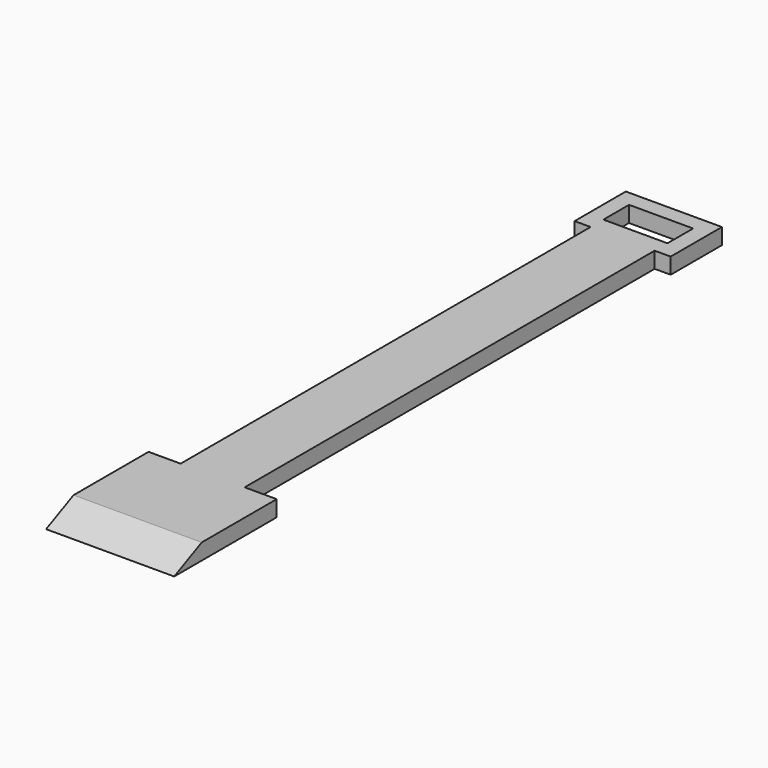
from build123d import *

# Parameters (mm, degrees)
F0_W     = 12.7
F0_H     = 101.6
F0_H_2   = 6.35
F1_DEPTH = 3.175
F3_DEPTH = 25.4


with BuildPart() as f1:
    # F0 (on Top) → F1 (new body)
    with BuildSketch(Plane.XY):
        with Locations((0, 76.2)):
            Rectangle(F0_W, F0_H)
        Polygon((-9.525, 127), (-6.35, 127), (6.35, 127), (9.525, 127), (9.525, 139.7), (-9.525, 139.7), align=None)
        with Locations((0, 133.35)):
            Rectangle(F0_W, F0_H_2, mode=Mode.SUBTRACT)
        Polygon((-12.7, 25.4), (-12.7, 0), (12.7, 0), (12.7, 25.4), (6.35, 25.4), (-6.35, 25.4), align=None)
    extrude(amount=F1_DEPTH)

    # F2 (on face) → F3 (cut)
    with BuildSketch(Plane.YZ.offset(12.7)):
        Polygon((0, 3.175), (0, 0), (6.808809, 3.175), align=None)
    extrude(amount=-F3_DEPTH, mode=Mode.SUBTRACT)


solid = f1.part
